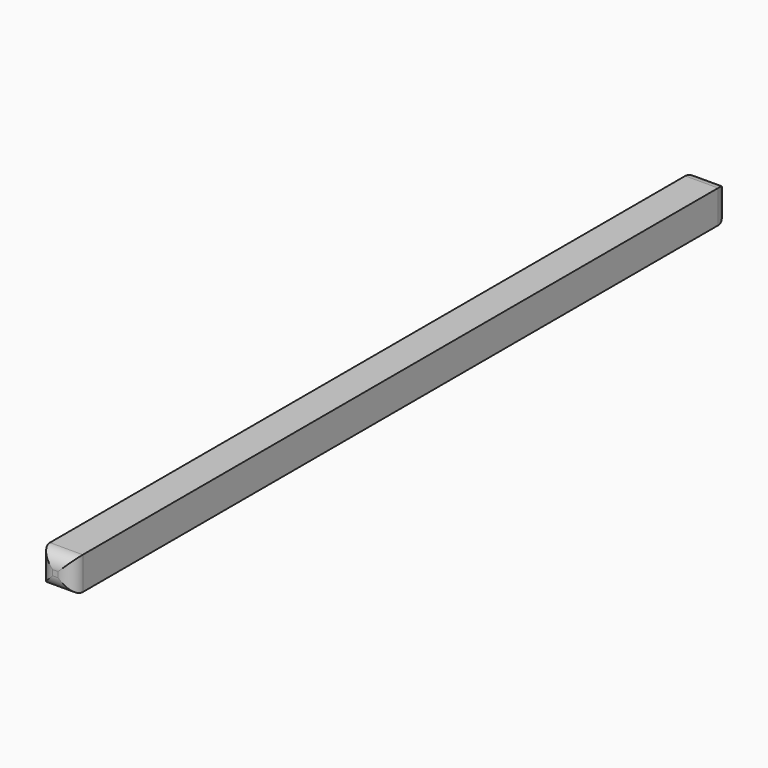
from build123d import *

# Parameters (mm, degrees)
F0_W     = 3.048
F0_H     = 3.048
F1_DEPTH = 76.2
F2_R     = 1.27


with BuildPart() as f1:
    # F0 (on Front) → F1 (new body)
    with BuildSketch(Plane.XZ):
        Rectangle(F0_W, F0_H)
    extrude(amount=F1_DEPTH)

    # F2
    f2_edges = [f1.edges().sort_by_distance(p)[0] for p in [
        (0, -76.2, 1.524),
        (1.524, -76.2, 0),
        (-1.524, -76.2, 0),
        (0, -76.2, -1.524),
        (1.524, 0, 0),
        (0, 0, -1.524),
        (0, 0, 1.524),
        (-1.524, 0, 0),
    ]]
    fillet(f2_edges, radius=F2_R)


solid = f1.part
